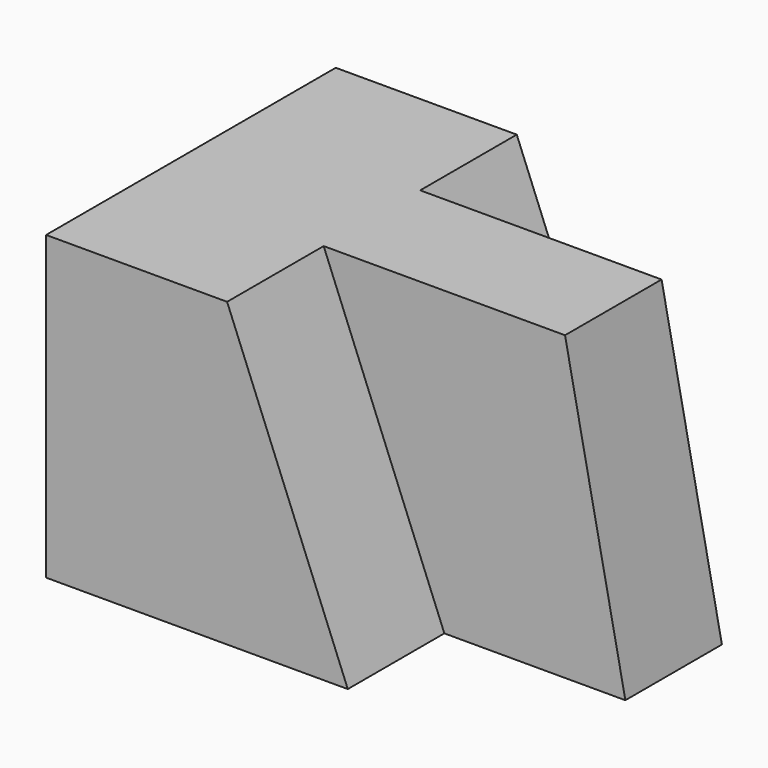
from build123d import *

# Parameters (mm, degrees)
F1_DEPTH = 31.75
F3_DEPTH = 12.7
F5_DEPTH = 38.1


with BuildPart() as f1:
    # F0 (on Top) → F1 (new body)
    with BuildSketch(Plane.XY):
        Polygon((0, 38.1), (0, 0), (19.05, 0), (19.05, 12.7), (44.45, 12.7), (44.45, 25.4), (19.05, 25.4), (19.05, 38.1), align=None)
    extrude(amount=F1_DEPTH)

    # F2 (on face) → F3 (join)
    with BuildSketch(Plane.XZ.offset(-12.7)):
        Polygon((50.8, 0), (44.45, 31.75), (44.45, 0), align=None)
    extrude(amount=-F3_DEPTH)

    # F4 (on face) → F5 (join)
    with BuildSketch(Plane.XZ):
        Polygon((31.75, 0), (19.05, 31.75), (19.05, 0), align=None)
    extrude(amount=-F5_DEPTH)


solid = f1.part
